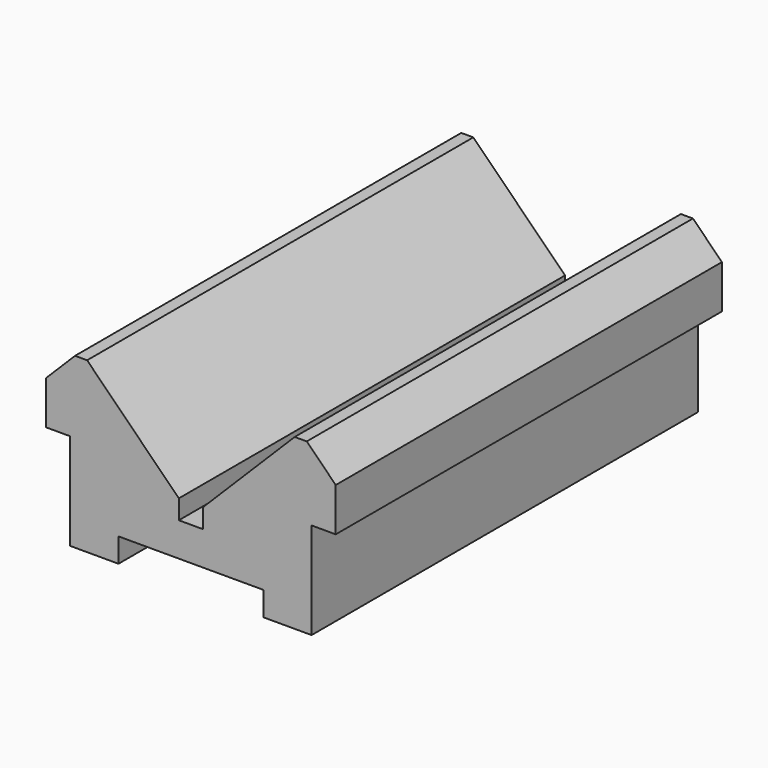
from build123d import *

# Parameters (mm, degrees)
F0_W          = 100
F0_H          = 35
F1_DEPTH      = 30
F2_W          = 5
F2_H          = 20
F2_W_2        = 30
F2_H_2        = 5
F3_DEPTH      = 100
F5_DEPTH      = 100
F5_DEPTH_BACK = 74.2
F7_DEPTH      = 100
F7_DEPTH_BACK = 100.7


with BuildPart() as f1:
    # F0 (on Right) → F1 (new body, symmetric)
    with BuildSketch(Plane.YZ):
        Rectangle(F0_W, F0_H)
    extrude(amount=F1_DEPTH, both=True)

    # F2 (on face) → F3 (cut)
    with BuildSketch(Plane.XZ.offset(50)):
        with Locations((-27.5, -7.5)):
            Rectangle(F2_W, F2_H)
        with Locations((0, -15)):
            Rectangle(F2_W_2, F2_H_2)
        with Locations((27.5, -7.5)):
            Rectangle(F2_W, F2_H)
    extrude(amount=-F3_DEPTH, mode=Mode.SUBTRACT)

    # F4 (on Front) → F5 (cut, two sides)
    with BuildSketch(Plane.XZ) as f5_sk:
        Polygon((30.0000030547, 11.5), (30.0000030547, 17.5), (24, 17.5), align=None)
        Polygon((-30.0000030547, 11.5), (-24, 17.5), (-30.0000030547, 17.5), align=None)
    extrude(amount=-F5_DEPTH, mode=Mode.SUBTRACT)
    extrude(f5_sk.sketch, amount=F5_DEPTH_BACK, mode=Mode.SUBTRACT)

    # F6 (on Front) → F7 (cut, two sides)
    with BuildSketch(Plane.XZ) as f7_sk:
        Polygon((2.5, -5.5), (2.5, -1.5), (21.5, 17.5), (-21.5, 17.5), (-2.5, -1.5), (-2.5, -5.5), align=None)
    extrude(amount=-F7_DEPTH, mode=Mode.SUBTRACT)
    extrude(f7_sk.sketch, amount=F7_DEPTH_BACK, mode=Mode.SUBTRACT)


solid = f1.part
